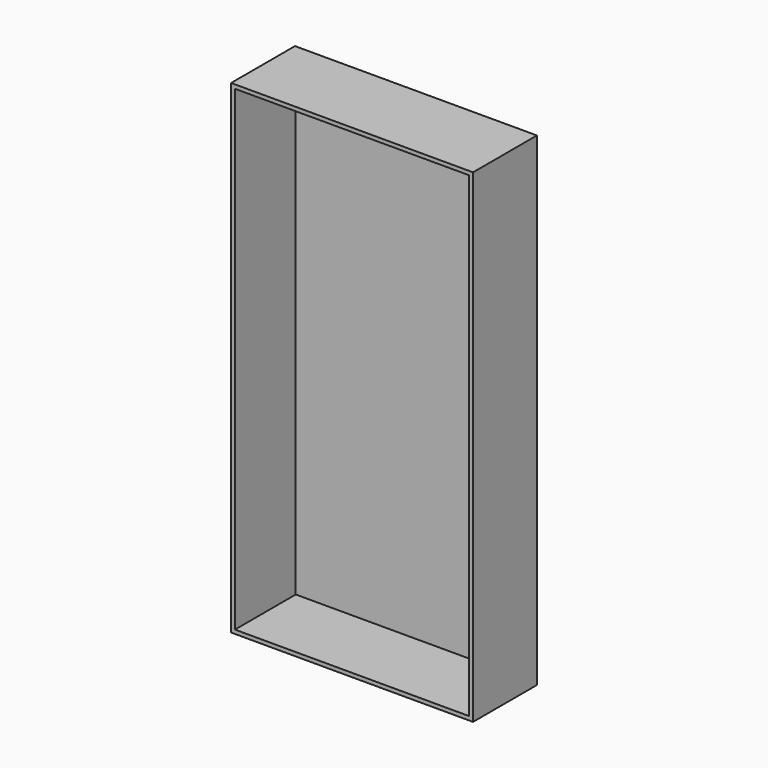
from build123d import *

# Parameters (mm, degrees)
F0_W     = 52.0596802235
F0_H     = 50.2265766263
F1_DEPTH = 330
F2_DEPTH = 2000
F3_DEPTH = 2000
F4_DEPTH = 1000
F5_T     = -16


with BuildPart() as f1:
    # F0 (on Front) → F1 (new body)
    with BuildSketch(Plane.XZ):
        with Locations((26.0298401117, 25.1132883132)):
            Rectangle(F0_W, F0_H)
    extrude(amount=F1_DEPTH)

    # F2 (add): a face of the model
    f2_faces = [f1.faces().sort_by_distance(p)[0] for p in [
        (0, -165, 25.1132883132),
    ]]
    extrude(f2_faces, amount=-F2_DEPTH)

    # F3 (add): a face of the model
    f3_faces = [f1.faces().sort_by_distance(p)[0] for p in [
        (1000, -165, 0),
    ]]
    extrude(f3_faces, amount=-F3_DEPTH)

    # F4 (intersect): a face of the model
    f4_faces = [f1.faces().sort_by_distance(p)[0] for p in [
        (0, -165, 1000),
    ]]
    extrude(f4_faces, amount=-F4_DEPTH, mode=Mode.INTERSECT)

    # F5
    f5_openings = [f1.faces().sort_by_distance(p)[0] for p in [
        (500, -330, 1000),
    ]]
    offset(amount=F5_T, openings=f5_openings)


solid = f1.part
